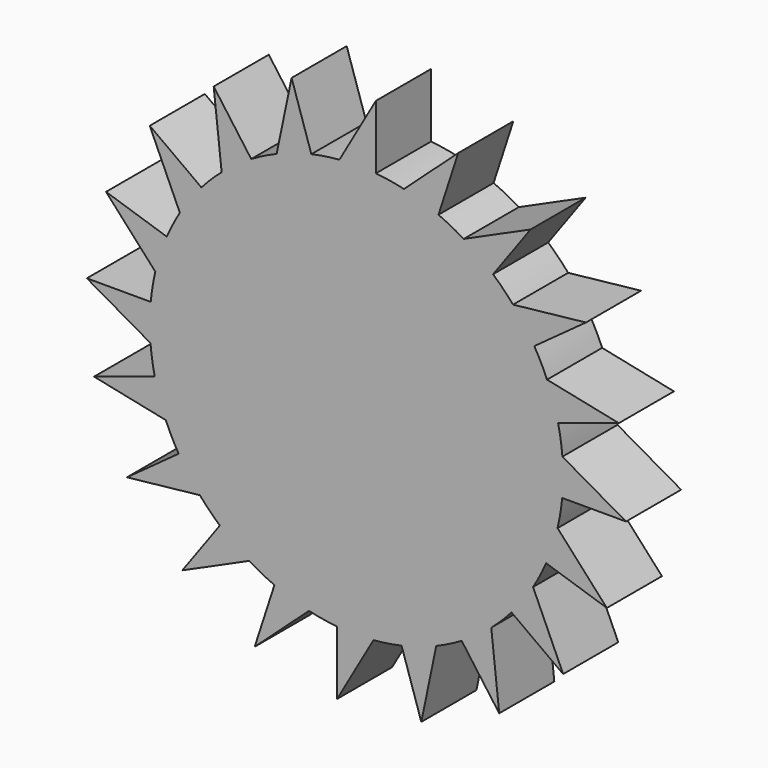
from build123d import *

# Parameters (mm, degrees)
F0_R     = 76.2
F1_DEPTH = 25.4
F3_DEPTH = 25.4
F4_COUNT = 20


with BuildPart() as f1:
    # F0 (on Front) → F1 (new body)
    with BuildSketch(Plane.XZ):
        Circle(F0_R)
    extrude(amount=F1_DEPTH)

    # F2 (on face) → F3 (join, through all)
    with BuildSketch(Plane.XZ.offset(25.4)):
        Polygon((7.153107319, 99.4136035442), (-6.2727834728, 75.941373358), (7.153107319, 75.8635159723), align=None)
    extrude(amount=-F3_DEPTH)

    # F4: F1 ×20 about axis
    f4_axis = Axis((0, 0, 0), (0, 1, 0))


with BuildPart() as f1_1:
    add(f1.part)
    for i in range(1, F4_COUNT):
        add(f1.part.rotate(f4_axis, i * 360 / F4_COUNT))


solid = f1_1.part
